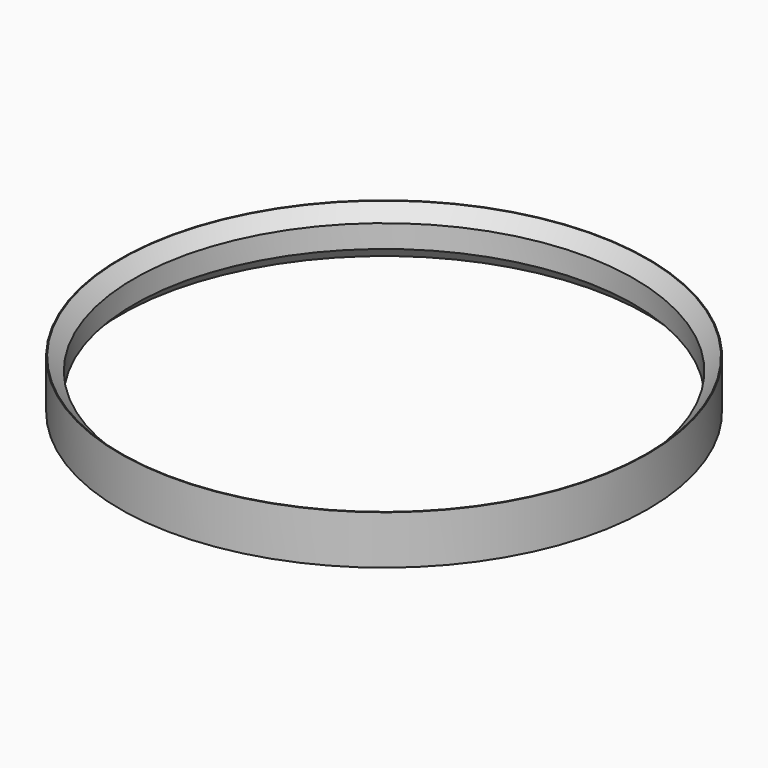
from build123d import *

# Parameters (mm, degrees)
F0_R     = 16.25
F1_DEPTH = 3
F2_R     = 15.4
F3_DEPTH = 3.001
F4_SIZE  = 0.8


with BuildPart() as f1:
    # F0 (on Top) → F1 (new body)
    with BuildSketch(Plane.XY):
        Circle(F0_R)
    extrude(amount=F1_DEPTH)

    # F2 (on face) → F3 (cut, through all)
    with BuildSketch(Plane.XY.offset(3)):
        Circle(F2_R)
    extrude(amount=-F3_DEPTH, mode=Mode.SUBTRACT)

    # F4
    f4_edges = [f1.edges().sort_by_distance(p)[0] for p in [
        (-15.4, 0, 3),
        (-15.4, 0, 0),
    ]]
    chamfer(f4_edges, length=F4_SIZE)


solid = f1.part
